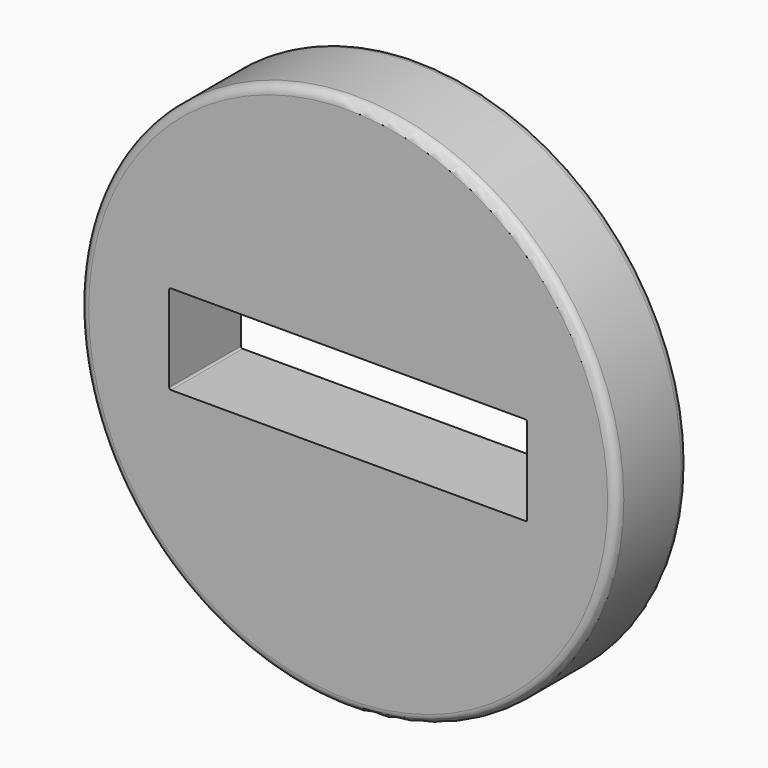
from build123d import *

# Parameters (mm, degrees)
F0_R     = 38.1
F1_DEPTH = 12.7
F2_R     = 1.27


with BuildPart() as f1:
    # F0 (on Front) → F1 (new body)
    with BuildSketch(Plane.XZ):
        Circle(F0_R)
        with BuildLine():
            ThreePointArc((-25.4, 6.096), (-25.325605, 6.275605), (-25.146, 6.35))
            Line((-25.146, 6.35), (25.146, 6.35))
            ThreePointArc((25.146, 6.35), (25.325605, 6.275605), (25.4, 6.096))
            Line((25.4, 6.096), (25.4, -6.096))
            ThreePointArc((25.4, -6.096), (25.325605, -6.275605), (25.146, -6.35))
            Line((25.146, -6.35), (-25.146, -6.35))
            ThreePointArc((-25.146, -6.35), (-25.325605, -6.275605), (-25.4, -6.096))
            Line((-25.4, -6.096), (-25.4, 6.096))
        make_face(mode=Mode.SUBTRACT)
    extrude(amount=F1_DEPTH)

    # F2
    f2_edges = [f1.edges().sort_by_distance(p)[0] for p in [
        (-38.1, -12.7, 0),
        (-38.1, 0, 0),
    ]]
    fillet(f2_edges, radius=F2_R)


solid = f1.part
